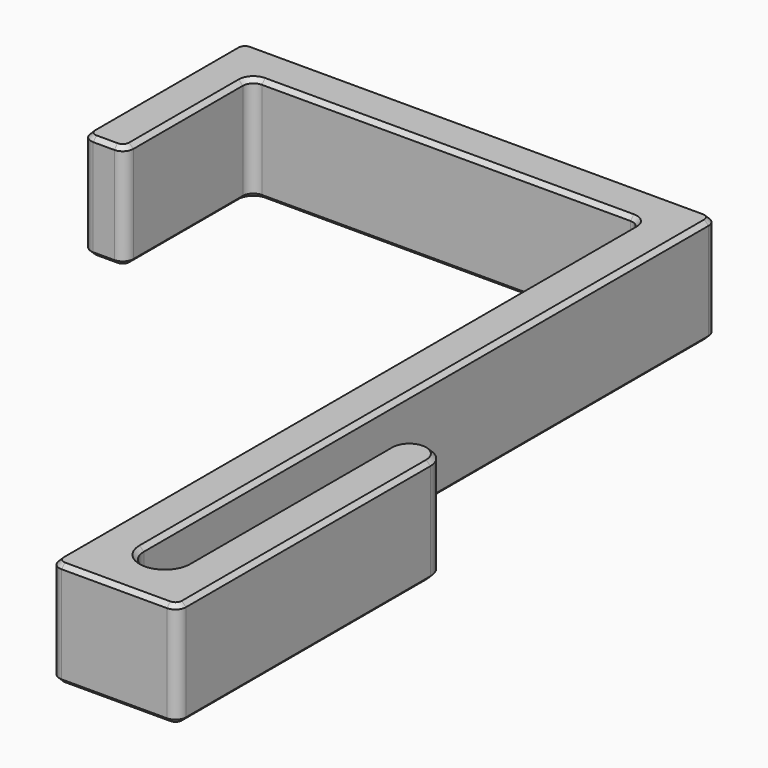
from build123d import *

# Parameters (mm, degrees)
PAD_DEPTH    = 10
FILLET_R     = 1
CHAMFER_SIZE = 0.4


with BuildPart() as part:
    # Sketch → Pad (new body)
    with BuildSketch(Plane.XY):
        with BuildLine():
            Line((-18.5, 55), (-22.5, 55))
            Line((-22.5, 55), (-22.5, 74))
            Line((-22.5, 74), (22.5, 74))
            Line((22.5, 74), (22.5, 6))
            ThreePointArc((22.5, 6), (24.5, 4), (26.5, 6))
            Line((26.5, 6), (26.5, 30))
            ThreePointArc((30.5, 30), (28.5, 32), (26.5, 30))
            Line((30.5, 30), (30.5, 0))
            Line((30.5, 0), (18.5, 0))
            Line((18.5, 0), (18.5, 70))
            Line((18.5, 70), (-18.5, 70))
            Line((-18.5, 70), (-18.5, 55))
        make_face()
    extrude(amount=PAD_DEPTH)

    # Fillet
    fillet_edges = [part.edges().sort_by_distance(p)[0] for p in [
        (18.5, 70, 5),
        (-18.5, 55, 5),
        (-22.5, 55, 5),
        (-22.5, 74, 5),
        (22.5, 74, 5),
        (18.5, 0, 5),
        (30.5, 0, 5),
        (-18.5, 70, 5),
    ]]
    fillet(fillet_edges, radius=FILLET_R)

    # Chamfer
    chamfer_edges = [part.edges().sort_by_distance(p)[0] for p in [
        (30.5, 15.5, 10),
        (30.207107, 0.292893, 10),
        (28.5, 32, 10),
        (24.5, 0, 10),
        (26.5, 18, 10),
        (18.792893, 0.292893, 10),
        (24.5, 4, 10),
        (18.5, 35, 10),
        (22.5, 39.5, 10),
        (18.207107, 69.707107, 10),
        (22.207107, 73.707107, 10),
        (0, 70, 10),
        (0, 74, 10),
        (-18.207107, 69.707107, 10),
        (-22.207107, 73.707107, 10),
        (-18.5, 62.5, 10),
        (-22.5, 64.5, 10),
        (-18.792893, 55.292893, 10),
        (-22.207107, 55.292893, 10),
        (-20.5, 55, 10),
        (30.5, 15.5, 0),
        (30.207107, 0.292893, 0),
        (28.5, 32, 0),
        (24.5, 0, 0),
        (26.5, 18, 0),
        (18.792893, 0.292893, 0),
        (24.5, 4, 0),
        (18.5, 35, 0),
        (22.5, 39.5, 0),
        (18.207107, 69.707107, 0),
        (22.207107, 73.707107, 0),
        (0, 70, 0),
        (0, 74, 0),
        (-18.207107, 69.707107, 0),
        (-22.207107, 73.707107, 0),
        (-18.5, 62.5, 0),
        (-22.5, 64.5, 0),
        (-18.792893, 55.292893, 0),
        (-22.207107, 55.292893, 0),
        (-20.5, 55, 0),
    ]]
    chamfer(chamfer_edges, length=CHAMFER_SIZE)


solid = part.part
